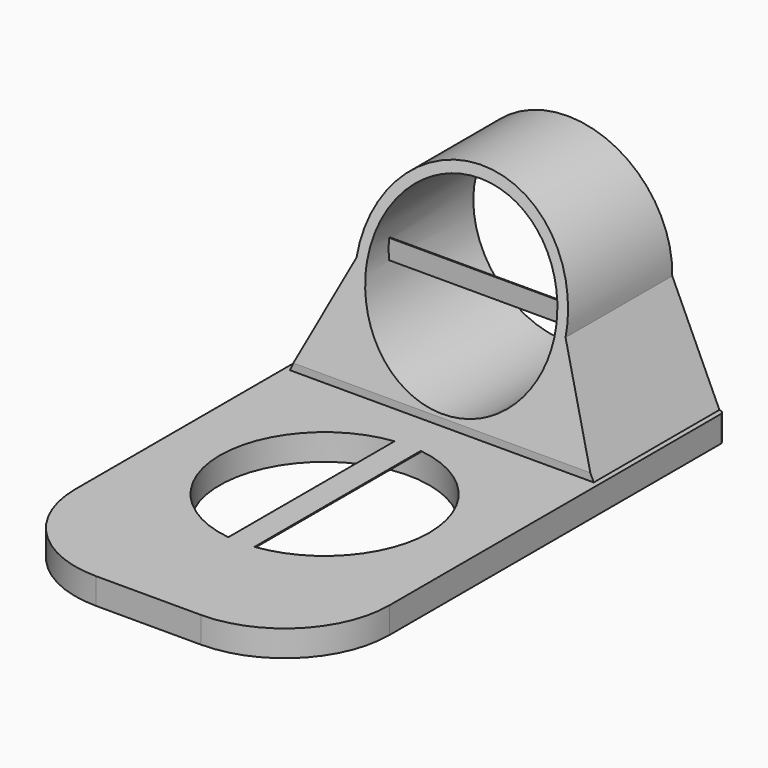
from build123d import *

# Parameters (mm, degrees)
F0_R      = 100
F1_DEPTH  = 25
F2_R      = 5
F3_R      = 90
F4_DEPTH  = 150
F6_DEPTH  = 300.001
F7_W      = 25
F7_H      = 200
F8_DEPTH  = 1
F10_W     = 180
F10_H     = 18.838352
F11_DEPTH = 1


with BuildPart() as f1:
    # F0 (on Top) → F1 (new body)
    with BuildSketch(Plane.XY):
        with BuildLine():
            ThreePointArc((-150, -150), (-120.710678, -220.710678), (-50, -250))
            Line((-50, -250), (50, -250))
            ThreePointArc((50, -250), (120.710678, -220.710678), (150, -150))
            Line((150, -150), (150, 250))
            Line((150, 250), (-150, 250))
            Line((-150, 250), (-150, -150))
        make_face()
        with Locations((0, -40)):
            Circle(F0_R, mode=Mode.SUBTRACT)
    extrude(amount=-F1_DEPTH)

    # F2
    f2_edges = [f1.edges().sort_by_distance(p)[0] for p in [
        (150, 250, -12.5),
        (-150, 250, -12.5),
    ]]
    fillet(f2_edges, radius=F2_R)

    # F3 (on face) → F4 (join)
    with BuildSketch(Plane(origin=(0, 250, 0), x_dir=(-1, 0, 0), z_dir=(0, 1, 0))):
        with BuildLine():
            ThreePointArc((-99.979435, 97.972075), (1.014014, 0.005141), (100, 100))
            ThreePointArc((100, 100), (-1.014014, 199.994859), (-99.979435, 97.972075))
        make_face()
        with Locations((0, 100)):
            Circle(F3_R, mode=Mode.SUBTRACT)
        with BuildLine():
            ThreePointArc((0, 0), (-69.990026, 28.575941), (-99.979435, 97.972075))
            Line((-99.979435, 97.972075), (-145, 0))
            Line((-145, 0), (0, 0))
        make_face()
        with BuildLine():
            Line((145, 0), (100, 100))
            ThreePointArc((100, 100), (70.710678, 29.289322), (0, 0))
            Line((0, 0), (145, 0))
        make_face()
    extrude(amount=-F4_DEPTH)

    # F5 (on face) → F6 (cut, through all)
    with BuildSketch(Plane.YZ.offset(150)):
        Polygon((98.237798, 200.659841), (98.237798, 0), (148.237798, 200.659841), align=None)
    extrude(amount=-F6_DEPTH, mode=Mode.SUBTRACT)

    # F7 (on face) → F8 (join)
    with BuildSketch(Plane.XY):
        with Locations((0, -40)):
            Rectangle(F7_W, F7_H)
    extrude(amount=-F8_DEPTH)

    # F10 (on offset) → F11 (join)
    with BuildSketch(Plane.XZ.offset(-150)):
        with Locations((0, 100)):
            Rectangle(F10_W, F10_H)
    extrude(amount=F11_DEPTH)


solid = f1.part
